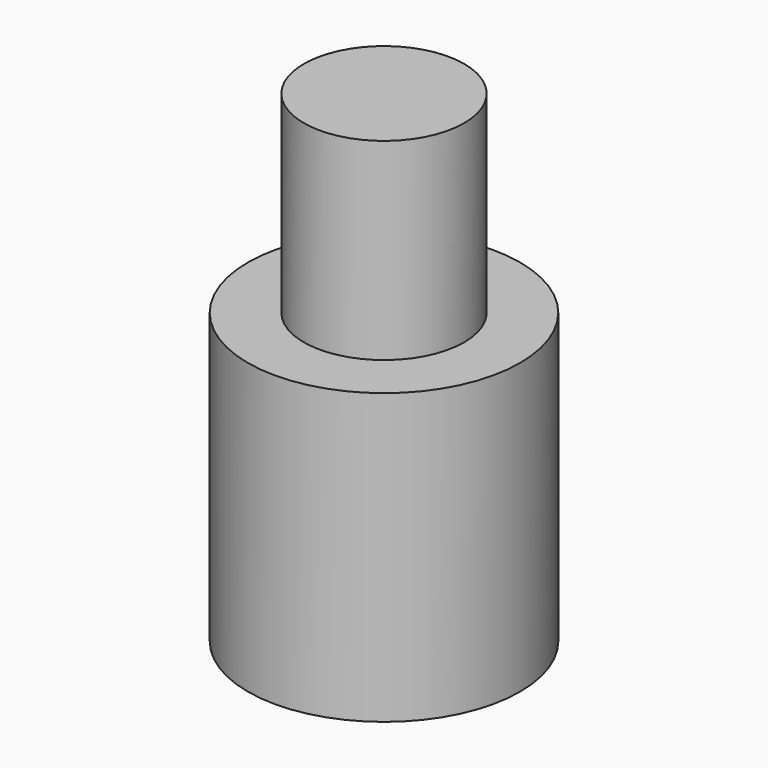
from build123d import *

# Parameters (mm, degrees)
F0_R     = 14.107096
F1_DEPTH = 15
F2_R     = 8.312579
F3_DEPTH = 20


with BuildPart() as f1:
    # F0 (on Top) → F1 (new body, symmetric)
    with BuildSketch(Plane.XY):
        Circle(F0_R)
    extrude(amount=F1_DEPTH, both=True)

    # F2 (on face) → F3 (join, symmetric)
    with BuildSketch(Plane.XY.offset(15)):
        Circle(F2_R)
    extrude(amount=F3_DEPTH, both=True)


solid = f1.part
